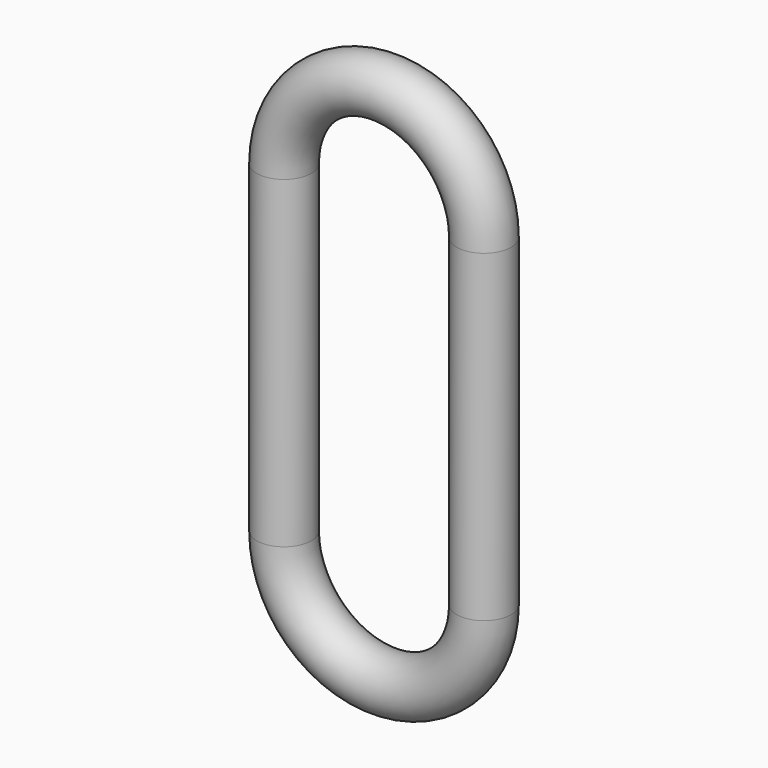
from build123d import *

# Parameters (mm, degrees)
F1_R = 9.525


with BuildPart() as f2:
    # F2: sweep along a path in F0
    with BuildLine(Plane.XZ) as f2_path:
        Line((25.4, 0), (25.4, 77.337729))
        ThreePointArc((25.4, 77.337729), (0, 102.737729), (-25.4, 77.337729))
        Line((-25.4, 77.337729), (-25.4, 0))
        Line((-25.4, 0), (-25.4, -35.687685))
        ThreePointArc((-25.4, -35.687685), (0, -61.087685), (25.4, -35.687685))
        Line((25.4, -35.687685), (25.4, 0))
    # F1 (on Top) → F2 (sweep)
    with BuildSketch(Plane.XY):
        with Locations((34.925, 0)):
            Circle(F1_R)
    sweep(path=f2_path.line)


solid = f2.part
